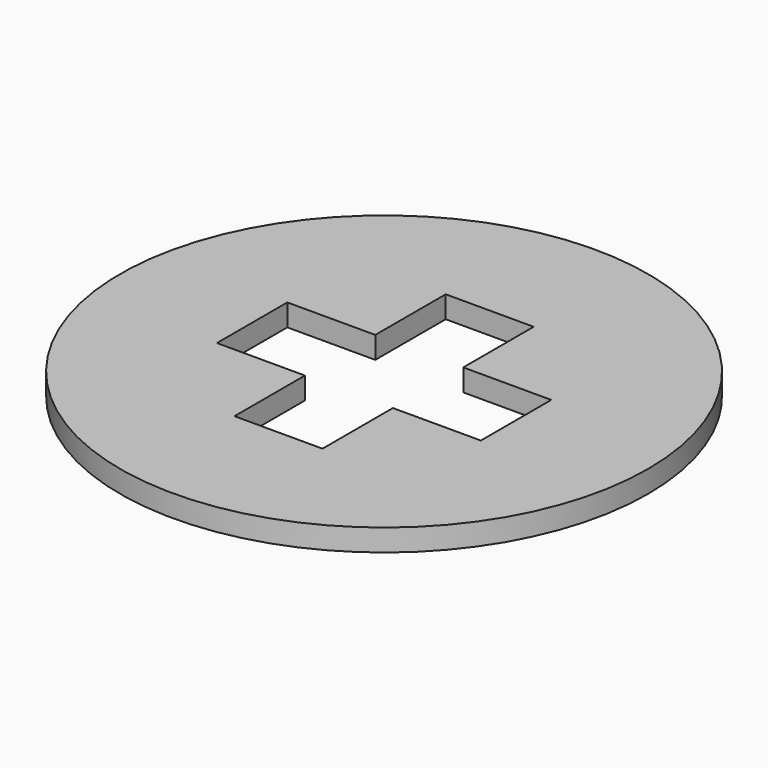
from build123d import *

# Parameters (mm, degrees)
F0_R     = 60
F1_DEPTH = 5


with BuildPart() as f1:
    # F0 (on Top) → F1 (new body)
    with BuildSketch(Plane.XY):
        Circle(F0_R)
        Polygon((-10, 30), (0, 30), (10, 30), (10, 10), (30, 10), (30, 0), (30, -10), (10, -10), (10, -30), (0, -30), (-10, -30), (-10, -10), (-30, -10), (-30, 0), (-30, 10), (-10, 10), align=None, mode=Mode.SUBTRACT)
    extrude(amount=F1_DEPTH)


solid = f1.part
